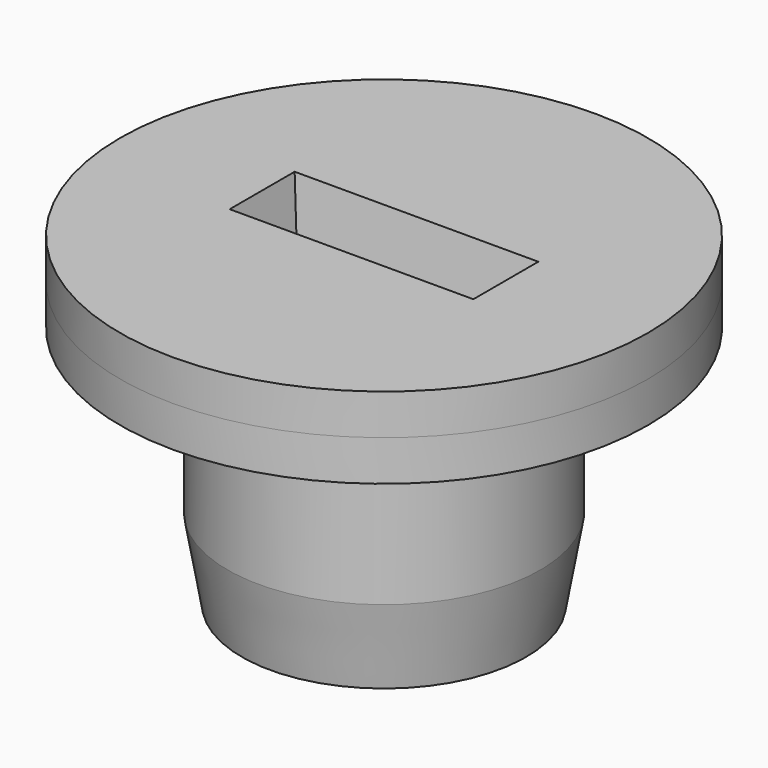
from build123d import *

# Parameters (mm, degrees)
F2_R     = 6.5
F2_R_2   = 5.75
F3_DEPTH = 1
F4_W     = 6
F4_H     = 2
F5_DEPTH = 3
F5_TAPER = 10


with BuildPart() as f1:
    # F0 (on Right) → F1 (revolve)
    with BuildSketch(Plane.YZ):
        Polygon((0, 8), (0, 0), (3.5, 0), (3.85, 2), (3.85, 7), (6.5, 7), (6.5, 8), align=None)
    revolve(axis=Axis((0, 0, 6.5057562609), (0, 0, 1)))

    # F2 (on face) → F3 (join)
    with BuildSketch(Plane(origin=(0, 0, 7), x_dir=(1, 0, 0), z_dir=(0, 0, -1))):
        Circle(F2_R)
        Circle(F2_R_2, mode=Mode.SUBTRACT)
    extrude(amount=F3_DEPTH)

    # F4 (on face) → F5 (cut)
    with BuildSketch(Plane.XY.offset(8)):
        Rectangle(F4_W, F4_H)
    extrude(amount=-F5_DEPTH, taper=F5_TAPER, mode=Mode.SUBTRACT)


solid = f1.part
